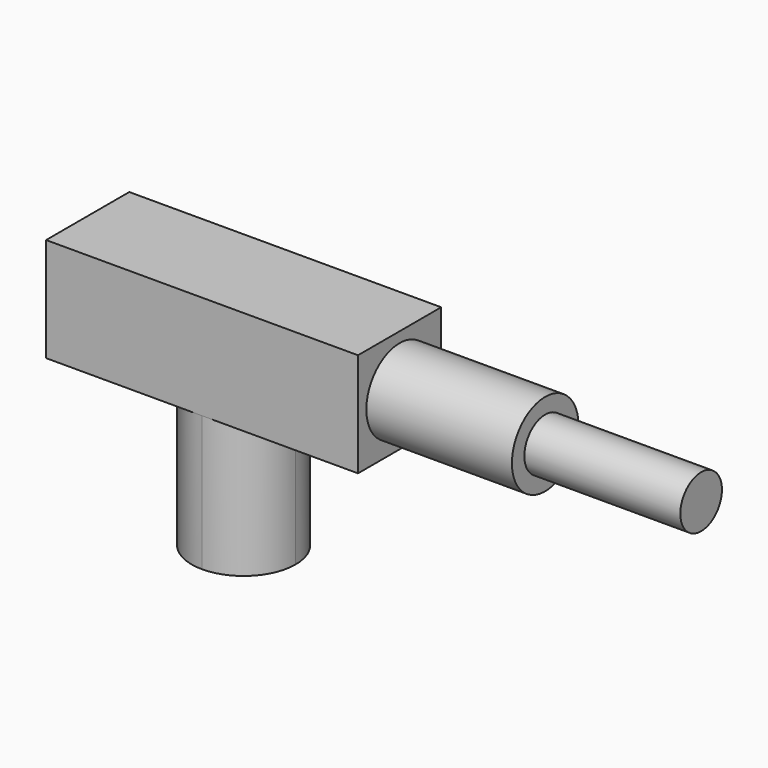
from build123d import *

# Parameters (mm, degrees)
F0_W     = 76.2
F0_H     = 25.4
F1_DEPTH = 12.7
F3_DEPTH = 33.02
F4_R     = 10.16
F5_DEPTH = 35.56
F6_R     = 6.35
F7_DEPTH = 38.1


with BuildPart() as f1:
    # F0 (on Front) → F1 (new body, symmetric)
    with BuildSketch(Plane.XZ):
        Rectangle(F0_W, F0_H)
    extrude(amount=F1_DEPTH, both=True)

    # F2 (on face) → F3 (join)
    with BuildSketch(Plane(origin=(0, 0, -12.7), x_dir=(1, 0, 0), z_dir=(0, 0, -1))):
        with BuildLine():
            ThreePointArc((0, -12.7), (8.980256, -8.980256), (12.7, 0))
            ThreePointArc((12.7, 0), (8.980256, 8.980256), (0, 12.7))
            ThreePointArc((0, 12.7), (-12.7, 0), (0, -12.7))
        make_face()
    extrude(amount=F3_DEPTH)

    # F4 (on face) → F5 (join)
    with BuildSketch(Plane.YZ.offset(38.1)):
        Circle(F4_R)
    extrude(amount=F5_DEPTH)

    # F6 (on face) → F7 (join)
    with BuildSketch(Plane.YZ.offset(73.66)):
        Circle(F6_R)
    extrude(amount=F7_DEPTH)


solid = f1.part
